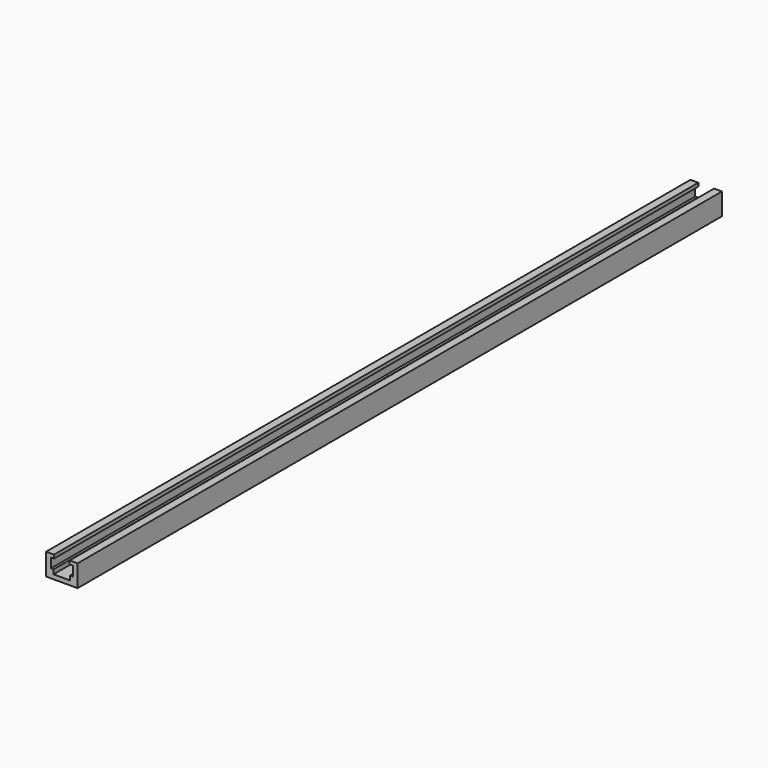
from build123d import *

# Parameters (mm, degrees)
F1_DEPTH = 230


with BuildPart() as f1:
    # F0 (on Front) → F1 (new body, symmetric)
    with BuildSketch(Plane.XZ):
        Polygon((-9, 0), (0, 0), (9, 0), (9, 12.5), (4.5, 12.5), (4.5, 10.5), (6.25, 10.5), (6.25, 5), (4.75, 5), (4.75, 2.5), (0, 2.5), (-4.75, 2.5), (-4.75, 5), (-6.25, 5), (-6.25, 10.5), (-4.5, 10.5), (-4.5, 12.5), (-9, 12.5), align=None)
    extrude(amount=F1_DEPTH, both=True)


solid = f1.part
